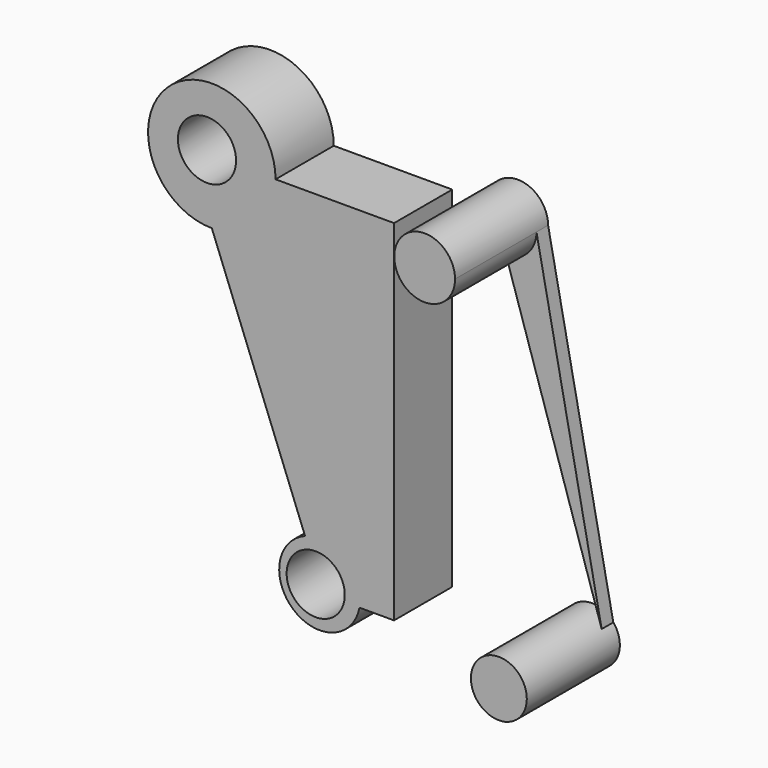
from build123d import *

# Parameters (mm, degrees)
F1_DEPTH = 25.4
F3_D     = 20.32
F6_DEPTH = 40.64
F4_R     = 9.7634014132
F7_DEPTH = 5.08


with BuildPart() as f1:
    # F0 (on Front) → F1 (new body)
    with BuildSketch(Plane.XZ):
        with BuildLine():
            ThreePointArc((-31.091335527, -61.7328519498), (-35.0391851817, -85.7768409495), (-12.095825273, -77.573112528))
            ThreePointArc((-12.095825273, -77.573112528), (-11.9072622515, -76.2512958844), (-11.8442205275, -74.9175863983))
            ThreePointArc((-11.8442205275, -74.9175863983), (-17.9929049383, -63.2525889885), (-31.091335527, -61.7328519498))
        make_face()
        with BuildLine():
            ThreePointArc((-63.6605185804, 22.3406193173), (-47.9145055019, 28.8628314877), (-41.3922933315, 44.6088445662))
            ThreePointArc((-41.3922933315, 44.6088445662), (-79.4065316589, 60.3548576446), (-63.6605185804, 22.3406193173))
        make_face()
        with BuildLine():
            Line((0, -77.573112528), (0, 44.6088445662))
            Line((0, 44.6088445662), (-41.3922933315, 44.6088445662))
            ThreePointArc((-41.3922933315, 44.6088445662), (-47.9145055019, 28.8628314877), (-63.6605185804, 22.3406193173))
            Line((-63.6605185804, 22.3406193173), (-31.091335527, -61.7328519498))
            ThreePointArc((-31.091335527, -61.7328519498), (-17.9929049383, -63.2525889885), (-11.8442205275, -74.9175863983))
            ThreePointArc((-11.8442205275, -74.9175863983), (-11.9072622515, -76.2512958844), (-12.095825273, -77.573112528))
            Line((-12.095825273, -77.573112528), (0, -77.573112528))
        make_face()
    extrude(amount=F1_DEPTH)

    # F3 (through all)
    with Locations(Plane(origin=(0, 0, 0), x_dir=(1, 0, 0), z_dir=(0, 1, 0))):
        with Locations((-65.3430148959, -45.8650588989), (-27.3750796914, 75.3459855914)):
            Hole(F3_D / 2)


with BuildPart() as f6:
    # F5 (on Front) → F6 (new body)
    with BuildSketch(Plane.XZ):
        with BuildLine():
            ThreePointArc((22.8739380836, 33.8851595852), (30.380370131, 36.9944255442), (33.4896360901, 44.5008575916))
            ThreePointArc((33.4896360901, 44.5008575916), (15.3675060363, 52.007289639), (22.8739380836, 33.8851595852))
        make_face()
    extrude(amount=F6_DEPTH)


with BuildPart() as f6b:
    # F4 (on Front) → F6, piece 2 (new body)
    with BuildSketch(Plane.XZ):
        with Locations((48.7933456898, -76.4563083649)):
            Circle(F4_R)
    extrude(amount=F6_DEPTH)


with BuildPart() as f7:
    # F5 (on Front) → F7 (new body)
    with BuildSketch(Plane.XZ):
        with BuildLine():
            Line((56.2734752893, -70.247143507), (33.4896360901, 44.5008575916))
            ThreePointArc((33.4896360901, 44.5008575916), (30.380370131, 36.9944255442), (22.8739380836, 33.8851595852))
            Line((22.8739380836, 33.8851595852), (56.2734752893, -70.247143507))
        make_face()
    extrude(amount=F7_DEPTH)


solid = Compound([f1.part, f6.part, f6b.part, f7.part])
